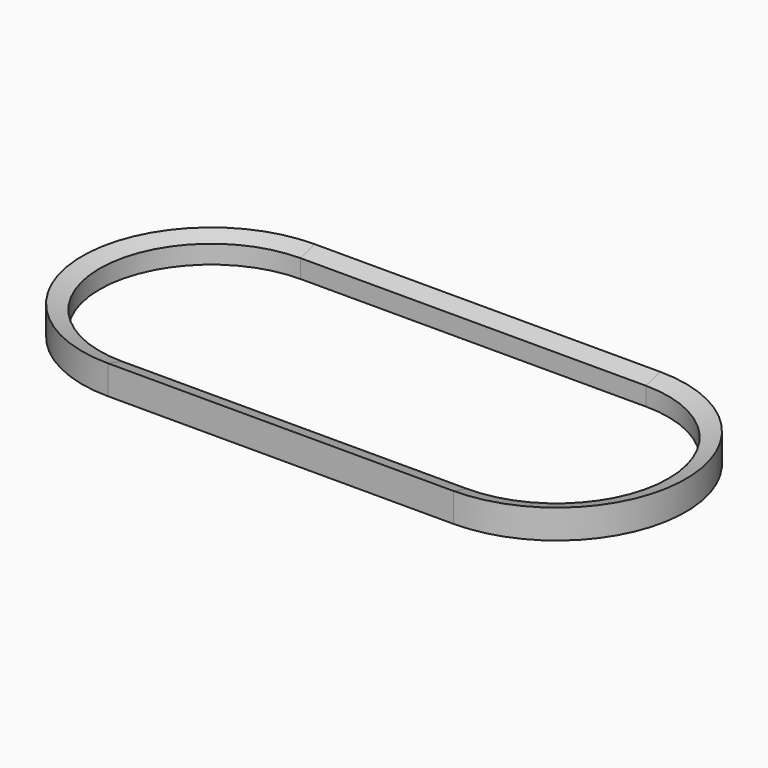
from build123d import *


with BuildPart() as f2:
    # F2: sweep along a path in F0
    with BuildLine(Plane.XY) as f2_path:
        Line((0, 0), (-59.5245, 0))
        ThreePointArc((-59.5245, 0), (-98.0245, 38.5), (-59.5245, 77))
        Line((-59.5245, 77), (0, 77))
        Line((0, 77), (59.5245, 77))
        ThreePointArc((59.5245, 77), (98.0245, 38.5), (59.5245, 0))
        Line((59.5245, 0), (0, 0))
    # F1 (on Right) → F2 (sweep)
    with BuildSketch(Plane.YZ):
        Polygon((0, -3.165616), (0, 0), (0, 3.165616), (-6, 5), (-6, 0), (-6, -5), align=None)
    sweep(path=f2_path.line)


solid = f2.part
